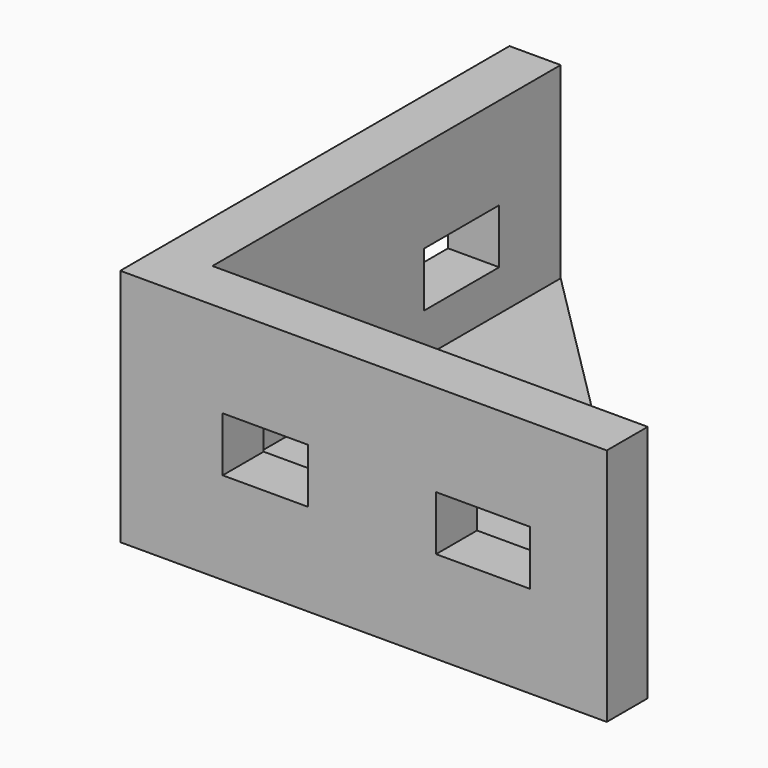
from build123d import *

# Parameters (mm, degrees)
F1_DEPTH = 14
F2_W     = 10
F2_H     = 6.4
F2_W_2   = 11
F3_DEPTH = 25
F5_DEPTH = 6
F6_W     = 10
F6_H     = 6.4
F6_W_2   = 11
F7_DEPTH = 25


with BuildPart() as f1:
    # F0 (on Top) → F1 (new body, symmetric)
    with BuildSketch(Plane.XY):
        Polygon((6, 57), (0, 57), (0, 0), (57, 0), (57, 6), (6, 6), align=None)
    extrude(amount=F1_DEPTH, both=True)

    # F2 (on face) → F3 (cut)
    with BuildSketch(Plane(origin=(0, 0, 0), x_dir=(0, -1, 0), z_dir=(-1, 0, 0))):
        with Locations((-17, 0)):
            Rectangle(F2_W, F2_H)
        with Locations((-42.5, 0)):
            Rectangle(F2_W_2, F2_H)
    extrude(amount=-F3_DEPTH, mode=Mode.SUBTRACT)

    # F4 (on face) → F5 (join)
    with BuildSketch(Plane(origin=(0, 0, -14), x_dir=(1, 0, 0), z_dir=(0, 0, -1))):
        Polygon((6, -57), (57, -6), (6, -6), align=None)
    extrude(amount=-F5_DEPTH)

    # F6 (on face) → F7 (cut)
    with BuildSketch(Plane.XZ):
        with Locations((17, 0)):
            Rectangle(F6_W, F6_H)
        with Locations((42.5, 0)):
            Rectangle(F6_W_2, F6_H)
    extrude(amount=-F7_DEPTH, mode=Mode.SUBTRACT)


solid = f1.part
